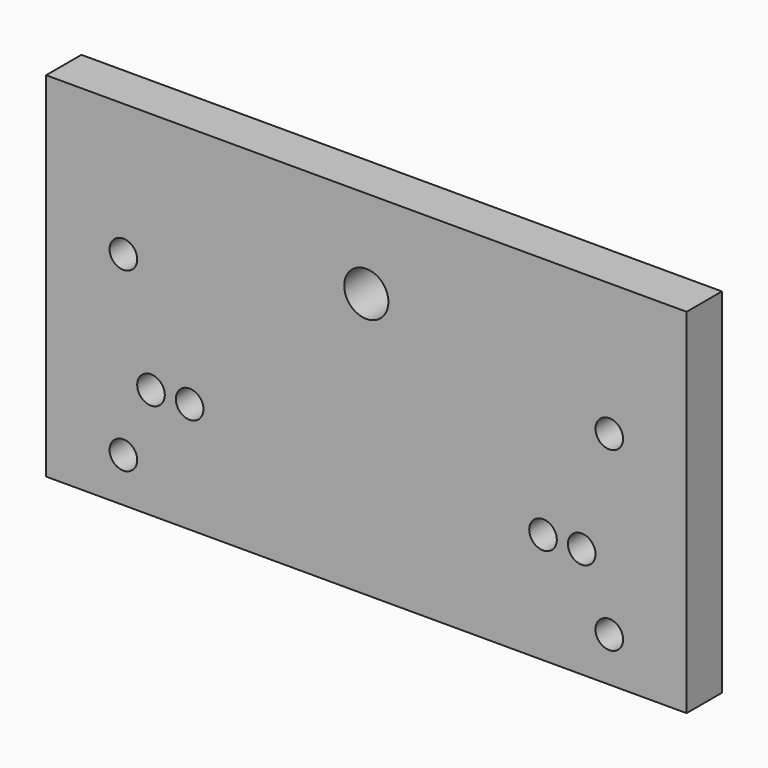
from build123d import *

# Parameters (mm, degrees)
F0_W     = 184.15
F0_H     = 101.6
F1_DEPTH = 12.7
F3_D     = 12.7
F5_D     = 7.9375
F7_D     = 7.9375


with BuildPart() as f1:
    # F0 (on Front) → F1 (new body)
    with BuildSketch(Plane.XZ):
        with Locations((92.075, 50.8)):
            Rectangle(F0_W, F0_H)
    extrude(amount=F1_DEPTH)

    # F3 (through all)
    with Locations(Plane.XZ.offset(12.7)):
        with Locations((92.075, 76.2)):
            Hole(F3_D / 2)

    # F5 (through all)
    with Locations(Plane.XZ.offset(12.7)):
        with Locations((22.225, 63.5), (161.925, 63.5), (161.925, 12.7), (22.225, 12.7)):
            Hole(F5_D / 2)

    # F7 (through all)
    with Locations(Plane.XZ.offset(12.7)):
        with Locations((41.275, 31.75), (142.875, 31.75), (30.1625, 31.75), (153.9875, 31.75)):
            Hole(F7_D / 2)


solid = f1.part
